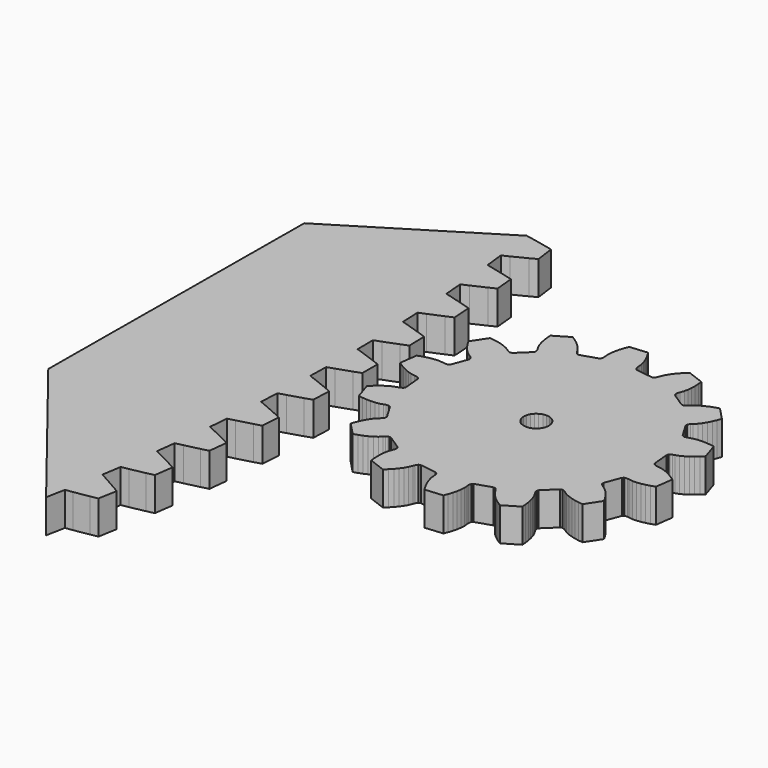
from build123d import *

# Parameters (mm, degrees)
F1_DEPTH = 2


with BuildPart() as f1:
    # F0 (on Top) → F1 (new body)
    with BuildSketch(Plane.XY):
        Polygon((94.769475, 0.322), (94.349095, 0.4651), (94.337525, 1.61364), (94.754925, 1.76519), (95.588775, 2.08621), (96.005185, 2.2554), (95.974825, 3.38472), (95.549925, 3.53129), (94.700025, 3.80704), (94.275085, 3.93594), (94.224925, 5.08344), (94.637005, 5.24892), (95.459605, 5.59778), (95.870095, 5.78086), (95.801805, 6.90852), (95.372225, 7.04073), (94.513545, 7.28778), (94.084515, 7.40233), (93.995835, 8.5475), (94.402125, 8.72673), (95.212535, 9.10302), (95.616645, 9.29979), (95.510515, 10.42452), (95.076735, 10.54223), (94.210235, 10.76029), (93.777595, 10.86036), (93.650505, 12.0019), (94.050535, 12.19468), (94.847855, 12.59799), (95.245125, 12.80822), (95.101275, 13.92875), (94.663785, 14.03182), (93.790445, 14.22065), (93.354695, 14.30613), (84.484055, 8.82061), (84.357045, -10.08015), (92.350045, -20.23406), (92.568685, -19.10646), (93.007985, -19.04157), (93.889225, -18.89401), (94.331075, -18.81163), (94.527455, -17.69911), (94.140515, -17.47042), (93.363045, -17.03007), (92.972515, -16.81869), (93.153155, -15.68439), (93.590025, -15.60477), (94.465815, -15.4277), (94.904645, -15.33052), (95.063545, -14.21203), (94.669135, -13.99647), (93.877315, -13.58249), (93.479905, -13.38435), (93.622335, -12.24462), (94.056275, -12.15037), (94.925625, -11.94397), (95.360945, -11.8321), (95.482185, -10.70891), (95.080755, -10.50672), (94.275475, -10.11957), (93.871635, -9.9349), (93.975695, -8.79102), (94.406225, -8.68225), (95.268155, -8.44677), (95.699465, -8.32034), (95.782905, -7.1937), (95.374915, -7.00511), (94.557075, -6.64524), (94.147265, -6.47423), (94.212835, -5.32751), (94.639475, -5.20433), (95.492995, -4.94003), (95.919825, -4.79918), (95.965365, -3.67037), (95.551265, -3.4956), (94.721805, -3.1634), (94.306475, -3.00626), (94.333485, -1.85798), (94.755745, -1.72054), (95.599915, -1.42771), (96.021765, -1.2726), (96.029365, -0.14291), (95.609625, 0.01785), align=None)
        Polygon((98.352845, -0.03339), (98.409875, -0.12674), (98.499435, -1.12189), (98.459995, -1.22392), (98.410695, -1.26611), (98.306985, -1.32109), (98.199765, -1.35672), (97.985655, -1.42919), (97.778525, -1.53595), (97.576845, -1.66588), (97.380505, -1.81537), (97.189725, -1.98249), (97.004865, -2.16599), (97.330135, -3.16708), (97.587555, -3.20687), (97.840125, -3.22994), (98.086835, -3.23548), (98.326375, -3.22205), (98.556705, -3.18667), (98.772515, -3.11945), (98.880195, -3.08525), (98.996415, -3.06878), (99.061095, -3.07392), (99.152975, -3.13329), (99.665455, -3.99103), (99.674195, -4.10007), (99.648075, -4.15946), (99.578485, -4.254), (99.497355, -4.33262), (99.335885, -4.49081), (99.195585, -4.67687), (99.070255, -4.88144), (98.958215, -5.10132), (98.858845, -5.33466), (98.771915, -5.5802), (99.499325, -6.34101), (99.748515, -6.26518), (99.986085, -6.17638), (100.210765, -6.07432), (100.420755, -5.95829), (100.612925, -5.82648), (100.778195, -5.67228), (100.860375, -5.59475), (100.957935, -5.52948), (101.018445, -5.50605), (101.126985, -5.51967), (101.960875, -6.07011), (102.016055, -6.16456), (102.018295, -6.22941), (101.996615, -6.34477), (101.957625, -6.45082), (101.880785, -6.66339), (101.835115, -6.8919), (101.810945, -7.13059), (101.805405, -7.37731), (101.817125, -7.63066), (101.845335, -7.8896), (102.830815, -8.25946), (103.022425, -8.08302), (103.197945, -7.89993), (103.356095, -7.7105), (103.494935, -7.51484), (103.610885, -7.31271), (103.692885, -7.10207), (103.733285, -6.99656), (103.792865, -6.89542), (103.837225, -6.84806), (103.940925, -6.81324), (104.931055, -6.94736), (105.021755, -7.00851), (105.051905, -7.06597), (105.082435, -7.17931), (105.093315, -7.29177), (105.116315, -7.51664), (105.174305, -7.74233), (105.256105, -7.96787), (105.358155, -8.19255), (105.478635, -8.41573), (105.616405, -8.63679), (106.664765, -8.54244), (106.760845, -8.30033), (106.839545, -8.05923), (106.899835, -7.81993), (106.940045, -7.58341), (106.956805, -7.35099), (106.939295, -7.12563), (106.929915, -7.01304), (106.939715, -6.89606), (106.959125, -6.83415), (107.037445, -6.75778), (107.987715, -6.44902), (108.095965, -6.46476), (108.148065, -6.50345), (108.224745, -6.59232), (108.283345, -6.68892), (108.401635, -6.88154), (108.551805, -7.05972), (108.723355, -7.22743), (108.912795, -7.38559), (109.118175, -7.53439), (109.338215, -7.67378), (110.241815, -7.1339), (110.223335, -6.87409), (110.189625, -6.62271), (110.140125, -6.38096), (110.073725, -6.15041), (109.987985, -5.93373), (109.874425, -5.73829), (109.817125, -5.64092), (109.775205, -5.53128), (109.765825, -5.46707), (109.803255, -5.36428), (110.525455, -4.67379), (110.629815, -4.64101), (110.693535, -4.65326), (110.801185, -4.70006), (110.895895, -4.76167), (111.086045, -4.88389), (111.298655, -4.97926), (111.525985, -5.05594), (111.765275, -5.11623), (112.014885, -5.16119), (112.273615, -5.19131), (112.853485, -4.31283), (112.724105, -4.08677), (112.584665, -3.87491), (112.435175, -3.67857), (112.275325, -3.49967), (112.104055, -3.34165), (111.916945, -3.21484), (111.823075, -3.15197), (111.737725, -3.07138), (111.701425, -3.0176), (111.690545, -2.90875), (112.041635, -1.97329), (112.121435, -1.89847), (112.184165, -1.88186), (112.301455, -1.87732), (112.413515, -1.89173), (112.637865, -1.91934), (112.870805, -1.91303), (113.108885, -1.88347), (113.350645, -1.83397), (113.595045, -1.76617), (113.841215, -1.68105), (113.982505, -0.63798), (113.767855, -0.49043), (113.550305, -0.36006), (113.330425, -0.24803), (113.108785, -0.1562), (112.885915, -0.08814), (112.662305, -0.05507), (112.550455, -0.03915), (112.438595, -0.00357), (112.382545, 0.02913), (112.325525, 0.12248), (112.235955, 1.11763), (112.275395, 1.21967), (112.324705, 1.26185), (112.428415, 1.31683), (112.535625, 1.35246), (112.749735, 1.42493), (112.956865, 1.53169), (113.158555, 1.66162), (113.354895, 1.81111), (113.545665, 1.97823), (113.730525, 2.16173), (113.405255, 3.16282), (113.147845, 3.20262), (112.895265, 3.22569), (112.648555, 3.23122), (112.409015, 3.21779), (112.178695, 3.18241), (111.962885, 3.11519), (111.855195, 3.08099), (111.738985, 3.06452), (111.674295, 3.06966), (111.582415, 3.12903), (111.069945, 3.98677), (111.061205, 4.09581), (111.087325, 4.15521), (111.156905, 4.24974), (111.238045, 4.32836), (111.399505, 4.48655), (111.539805, 4.67261), (111.665145, 4.87718), (111.777175, 5.09706), (111.876545, 5.3304), (111.963485, 5.57594), (111.236065, 6.33675), (110.986875, 6.26092), (110.749305, 6.17212), (110.524625, 6.07006), (110.314635, 5.95403), (110.122475, 5.82222), (109.957205, 5.66802), (109.875015, 5.59049), (109.777455, 5.52522), (109.716945, 5.50179), (109.608405, 5.51541), (108.774525, 6.06585), (108.719335, 6.1603), (108.717105, 6.22515), (108.738775, 6.34052), (108.777765, 6.44656), (108.854605, 6.65914), (108.900285, 6.88764), (108.924445, 7.12634), (108.929985, 7.37305), (108.918275, 7.6264), (108.890065, 7.88534), (107.904575, 8.2552), (107.712965, 8.07876), (107.537455, 7.89567), (107.379305, 7.70624), (107.240455, 7.51058), (107.124515, 7.30845), (107.042515, 7.09781), (107.002105, 6.9923), (106.942525, 6.89116), (106.898175, 6.8438), (106.794475, 6.80898), (105.804345, 6.9431), (105.713645, 7.00425), (105.683495, 7.06171), (105.652965, 7.17505), (105.642085, 7.28751), (105.619075, 7.51238), (105.561085, 7.73807), (105.479295, 7.96361), (105.377235, 8.18829), (105.256755, 8.41147), (105.118995, 8.63253), (104.070625, 8.53818), (103.974545, 8.29607), (103.895855, 8.05497), (103.835555, 7.81567), (103.795355, 7.57915), (103.778585, 7.34673), (103.796105, 7.12137), (103.805475, 7.00878), (103.795685, 6.8918), (103.776275, 6.82989), (103.697945, 6.75352), (102.747685, 6.44476), (102.639425, 6.4605), (102.587335, 6.49919), (102.510655, 6.58806), (102.452055, 6.68466), (102.333765, 6.87728), (102.183585, 7.05546), (102.012035, 7.22317), (101.822605, 7.38133), (101.617215, 7.53013), (101.397185, 7.66952), (100.493575, 7.12964), (100.512055, 6.86983), (100.545765, 6.61845), (100.595275, 6.3767), (100.661665, 6.14615), (100.747415, 5.92947), (100.860975, 5.73403), (100.918275, 5.63666), (100.960195, 5.52702), (100.969575, 5.46281), (100.932135, 5.36002), (100.209945, 4.66953), (100.105585, 4.63675), (100.041855, 4.649), (99.934215, 4.6958), (99.839505, 4.75741), (99.649355, 4.87963), (99.436745, 4.975), (99.209405, 5.05168), (98.970115, 5.11198), (98.720505, 5.15693), (98.461785, 5.18705), (97.881905, 4.30857), (98.011285, 4.08251), (98.150725, 3.87065), (98.300225, 3.67432), (98.460075, 3.49541), (98.631335, 3.33739), (98.818455, 3.21058), (98.912325, 3.14771), (98.997665, 3.06712), (99.033975, 3.01334), (99.044845, 2.90449), (98.693765, 1.96903), (98.613955, 1.89421), (98.551235, 1.8776), (98.433945, 1.87306), (98.321885, 1.88747), (98.097535, 1.91508), (97.864595, 1.90877), (97.626505, 1.87921), (97.384745, 1.82971), (97.140355, 1.76192), (96.894185, 1.67679), (96.752885, 0.63372), (96.967545, 0.48617), (97.185095, 0.3558), (97.404975, 0.24377), (97.626615, 0.15194), (97.849485, 0.08388), (98.073085, 0.05081), (98.184945, 0.03489), (98.296805, -0.00069), align=None)
        Polygon((106.092145, 0.19198), (106.117695, -0.00213), (106.092145, -0.19624), (106.017215, -0.37713), (105.898025, -0.53246), (105.742695, -0.65165), (105.561815, -0.72657), (105.367695, -0.75213), (105.173585, -0.72657), (104.992695, -0.65165), (104.837365, -0.53246), (104.718175, -0.37713), (104.643255, -0.19624), (104.617695, -0.00213), (104.643255, 0.19198), (104.718175, 0.37287), (104.837365, 0.5282), (104.992695, 0.64739), (105.173585, 0.72231), (105.367695, 0.74787), (105.561815, 0.72231), (105.742695, 0.64739), (105.898025, 0.5282), (106.017215, 0.37287), align=None, mode=Mode.SUBTRACT)
    extrude(amount=F1_DEPTH)


solid = f1.part
